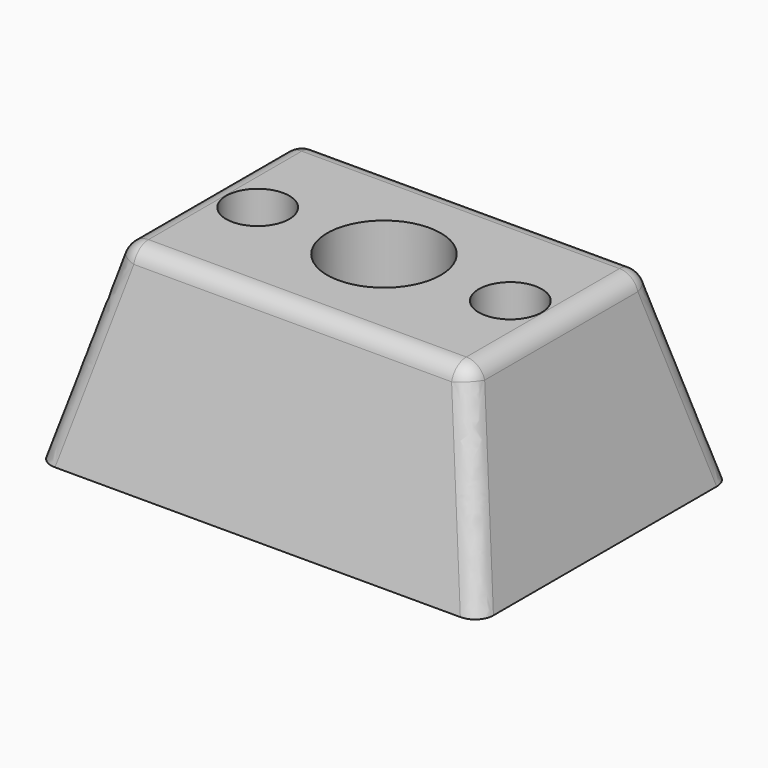
from build123d import *

# Parameters (mm, degrees)
SKETCH_W         = 70
SKETCH_H         = 50
SKETCH001_W      = 55
SKETCH001_H      = 35
SKETCH002_R      = 9
POCKET_DEPTH     = 30
HOLE_D           = 5
HOLE_CBORE_D     = 10
HOLE_CBORE_DEPTH = 18
FILLET_R         = 3


with BuildPart() as part:
    # Sketch → AdditiveLoft section 0
    with BuildSketch(Plane.XY):
        Rectangle(SKETCH_W, SKETCH_H)
    # Sketch001 (on DatumPlane) → AdditiveLoft section 1
    with BuildSketch(Plane.XY.offset(30)):
        Rectangle(SKETCH001_W, SKETCH001_H)
    loft()

    # Sketch002 (on DatumPlane) → Pocket (cut)
    with BuildSketch(Plane.XY.offset(30)):
        Circle(SKETCH002_R)
    extrude(amount=-POCKET_DEPTH, mode=Mode.SUBTRACT)

    # Hole (through all)
    with Locations(Plane.XY.offset(30)):
        with Locations((-20, 0), (20, 0)):
            CounterBoreHole(HOLE_D / 2, HOLE_CBORE_D / 2, HOLE_CBORE_DEPTH)

    # Fillet
    fillet_edges = [part.edges().sort_by_distance(p)[0] for p in [
        (-31.25, -21.25, 15),
        (0, -17.5, 30),
        (-27.5, 0, 30),
        (31.25, -21.25, 15),
        (27.5, 0, 30),
        (0, 17.5, 30),
        (-31.25, 21.25, 15),
        (31.25, 21.25, 15),
    ]]
    fillet(fillet_edges, radius=FILLET_R)


solid = part.part
